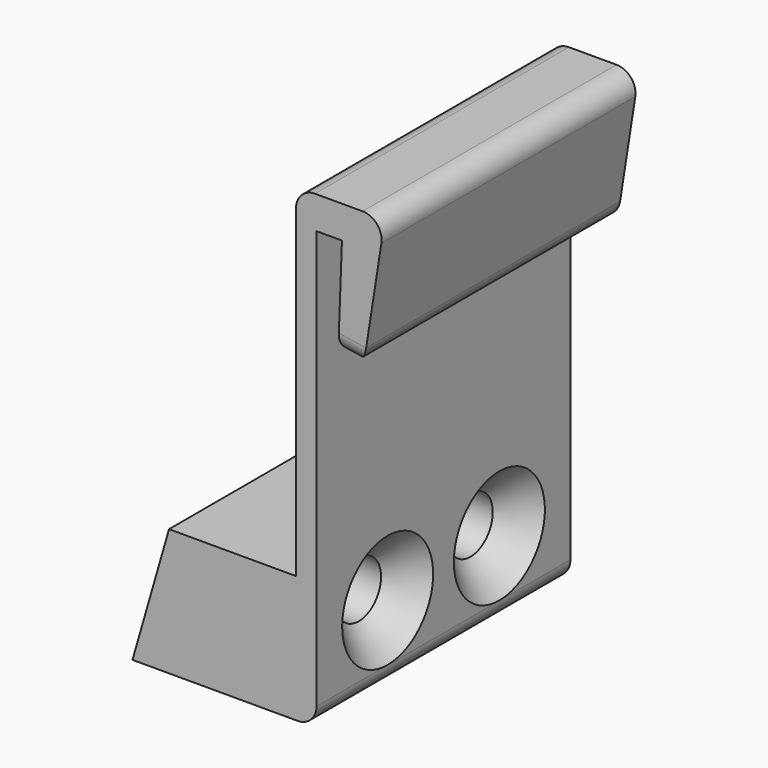
from build123d import *

# Parameters (mm, degrees)
F1_DEPTH       = 25
F2_R           = 1.5
F4_D           = 4.4
F4_CSINK_D     = 8.96
F4_CSINK_ANGLE = 90


with BuildPart() as f1:
    # F0 (on Front) → F1 (new body)
    with BuildSketch(Plane.XZ):
        Polygon((0, -20.1055445863), (0, -13.0393103669), (0, 14.3368082835), (2, 14.3368082835), (1.7, 6.3368082835), (3.6758784442, 6.0271239706), (5.3791421656, 16.8944554137), (-1.6208578344, 16.8944554137), (-1.6208578344, -10.1055445863), (-11.6208578344, -10.1055445863), (-14.5, -20.1055445863), align=None)
    extrude(amount=F1_DEPTH)

    # F2
    f2_edges = [f1.edges().sort_by_distance(p)[0] for p in [
        (-1.620858, -12.5, 16.894455),
        (5.379142, -12.5, 16.894455),
        (0, -12.5, -20.105545),
        (2.687939, -25, 6.181966),
        (3.675878, -12.5, 6.027124),
    ]]
    fillet(f2_edges, radius=F2_R)

    # F4 (through all)
    with Locations(Plane.YZ):
        with Locations((-7, -14.1055445863), (-18, -14.1055445863)):
            CounterSinkHole(F4_D / 2, F4_CSINK_D / 2, counter_sink_angle=F4_CSINK_ANGLE)


solid = f1.part
